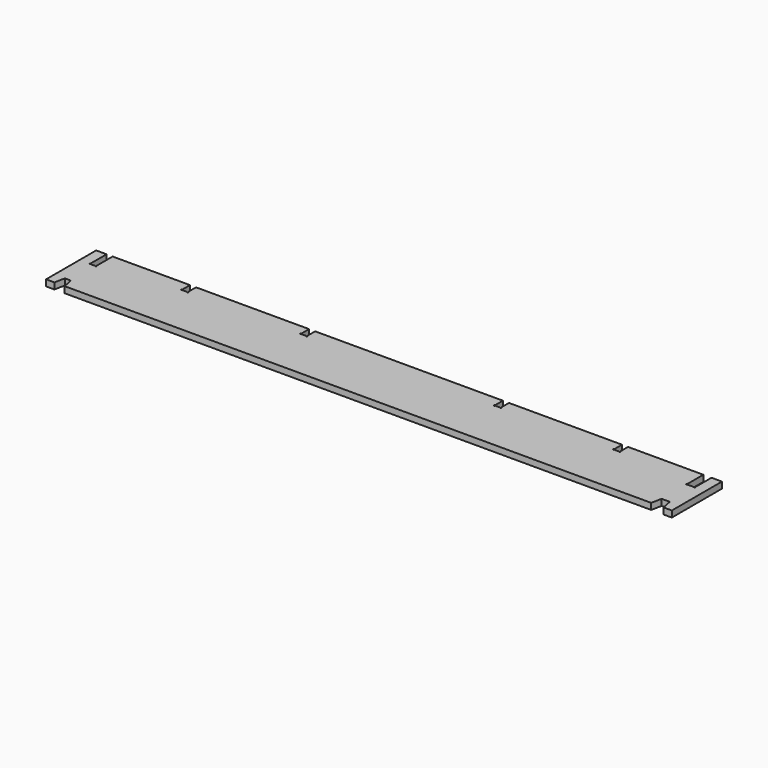
from build123d import *

# Parameters (mm, degrees)
F1_DEPTH = 3


with BuildPart() as f1:
    # F0 (on Top) → F1 (new body)
    with BuildSketch(Plane.XY):
        with BuildLine():
            Line((-140.054987, -9.987472), (-145.054987, -9.987472))
            Line((-145.054987, -9.987472), (-145.054987, -39.987472))
            Line((-145.054987, -39.987472), (-141.054987, -39.987472))
            Line((-141.054987, -39.987472), (-140.054987, -34.987472))
            Line((-140.054987, -34.987472), (-137.154987, -34.987472))
            Line((-137.154987, -34.987472), (-136.154987, -39.987472))
            Line((-136.154987, -39.987472), (145.045013, -39.987472))
            Line((145.045013, -39.987472), (146.045013, -34.987472))
            Line((146.045013, -34.987472), (149.945013, -34.987472))
            Line((149.945013, -34.987472), (150.945013, -39.987472))
            Line((150.945013, -39.987472), (154.945013, -39.987472))
            Line((154.945013, -39.987472), (154.945013, -9.987472))
            Line((154.945013, -9.987472), (149.945013, -9.987472))
            Line((149.945013, -9.987472), (149.945013, -19.737472))
            ThreePointArc((149.945013, -19.737472), (150.121789, -19.810695), (150.195013, -19.987472))
            ThreePointArc((150.195013, -19.987472), (149.945013, -20.237472), (149.695013, -19.987472))
            Line((149.695013, -19.987472), (146.295013, -19.987472))
            ThreePointArc((146.295013, -19.987472), (145.868236, -20.164249), (146.045013, -19.737472))
            Line((146.045013, -19.737472), (146.045013, -9.987472))
            Line((146.045013, -9.987472), (109.945013, -9.987472))
            Line((109.945013, -9.987472), (109.945013, -14.737472))
            ThreePointArc((109.945013, -14.737472), (110.121789, -14.810695), (110.195013, -14.987472))
            ThreePointArc((110.195013, -14.987472), (109.945013, -15.237472), (109.695013, -14.987472))
            Line((109.695013, -14.987472), (107.295013, -14.987472))
            ThreePointArc((107.295013, -14.987472), (106.868236, -15.164249), (107.045013, -14.737472))
            Line((107.045013, -14.737472), (107.045013, -9.987472))
            Line((107.045013, -9.987472), (52.845013, -9.987472))
            Line((52.845013, -9.987472), (52.845013, -14.737472))
            ThreePointArc((52.845013, -14.737472), (53.021789, -14.810695), (53.095013, -14.987472))
            ThreePointArc((53.095013, -14.987472), (52.845013, -15.237472), (52.595013, -14.987472))
            Line((52.595013, -14.987472), (50.195013, -14.987472))
            ThreePointArc((50.195013, -14.987472), (49.768236, -15.164249), (49.945013, -14.737472))
            Line((49.945013, -14.737472), (49.945013, -9.987472))
            Line((49.945013, -9.987472), (-40.054987, -9.987472))
            Line((-40.054987, -9.987472), (-40.054987, -14.737472))
            ThreePointArc((-40.054987, -14.737472), (-39.878211, -14.810695), (-39.804987, -14.987472))
            ThreePointArc((-39.804987, -14.987472), (-40.054987, -15.237472), (-40.304987, -14.987472))
            Line((-40.304987, -14.987472), (-42.704987, -14.987472))
            ThreePointArc((-42.704987, -14.987472), (-43.131764, -15.164249), (-42.954987, -14.737472))
            Line((-42.954987, -14.737472), (-42.954987, -9.987472))
            Line((-42.954987, -9.987472), (-97.154987, -9.987472))
            Line((-97.154987, -9.987472), (-97.154987, -14.737472))
            ThreePointArc((-97.154987, -14.737472), (-96.978211, -14.810695), (-96.904987, -14.987472))
            ThreePointArc((-96.904987, -14.987472), (-97.154987, -15.237472), (-97.404987, -14.987472))
            Line((-97.404987, -14.987472), (-99.804987, -14.987472))
            ThreePointArc((-99.804987, -14.987472), (-100.231764, -15.164249), (-100.054987, -14.737472))
            Line((-100.054987, -14.737472), (-100.054987, -9.987472))
            Line((-100.054987, -9.987472), (-137.154987, -9.987472))
            Line((-137.154987, -9.987472), (-137.154987, -19.737472))
            ThreePointArc((-137.154987, -19.737472), (-136.978211, -19.810695), (-136.904987, -19.987472))
            ThreePointArc((-136.904987, -19.987472), (-137.154987, -20.237472), (-137.404987, -19.987472))
            Line((-137.404987, -19.987472), (-139.804987, -19.987472))
            ThreePointArc((-139.804987, -19.987472), (-140.231764, -20.164249), (-140.054987, -19.737472))
            Line((-140.054987, -19.737472), (-140.054987, -9.987472))
        make_face()
    extrude(amount=F1_DEPTH)


solid = f1.part
